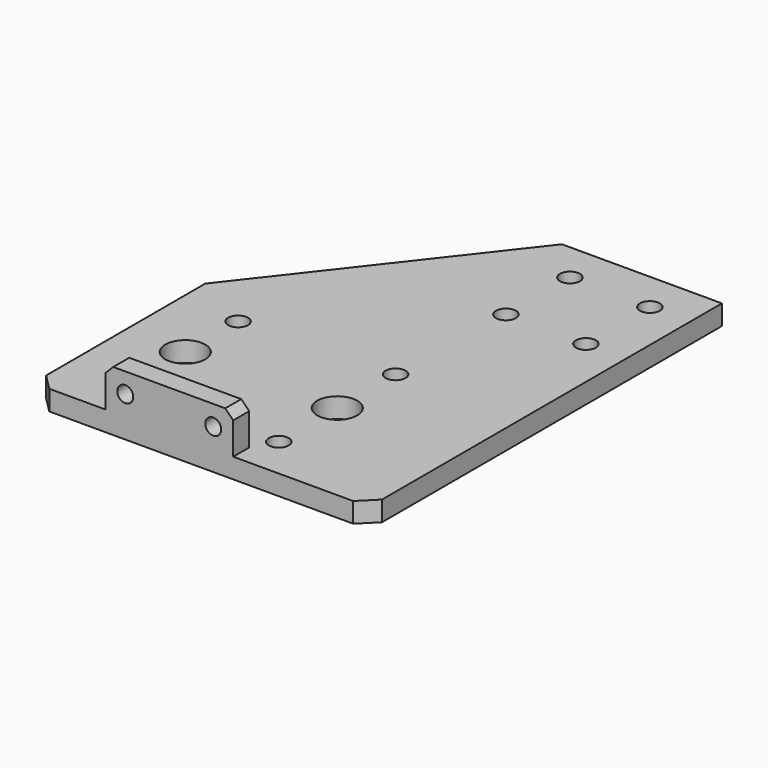
from build123d import *

# Parameters (mm, degrees)
SKETCH_R        = 2.5
SKETCH_R_2      = 5
PAD_DEPTH       = 5
CHAMFER_SIZE    = 4
SKETCH001_W     = 32
SKETCH001_H     = 5
PAD001_DEPTH    = 10
SKETCH002_R     = 2
POCKET_DEPTH    = 110.251
CHAMFER001_SIZE = 2


with BuildPart() as part:
    # Sketch → Pad (new body)
    with BuildSketch(Plane.XY):
        Polygon((84, 110.25), (44, 110.25), (0, 53.75), (0, 0), (84, 0), align=None)
        with Locations((15, 45.25)):
            Circle(SKETCH_R, mode=Mode.SUBTRACT)
        with Locations((15, 12.25)):
            Circle(SKETCH_R, mode=Mode.SUBTRACT)
        with Locations((15, 28.75)):
            Circle(SKETCH_R_2, mode=Mode.SUBTRACT)
        with Locations((53, 47)):
            Circle(SKETCH_R, mode=Mode.SUBTRACT)
        with Locations((53, 28.75)):
            Circle(SKETCH_R_2, mode=Mode.SUBTRACT)
        with Locations((53, 10.5)):
            Circle(SKETCH_R, mode=Mode.SUBTRACT)
        with Locations((54, 80.25)):
            Circle(SKETCH_R, mode=Mode.SUBTRACT)
        with Locations((74, 80.25)):
            Circle(SKETCH_R, mode=Mode.SUBTRACT)
        with Locations((54, 100.25)):
            Circle(SKETCH_R, mode=Mode.SUBTRACT)
        with Locations((74, 100.25)):
            Circle(SKETCH_R, mode=Mode.SUBTRACT)
    extrude(amount=PAD_DEPTH)

    # Chamfer
    chamfer_edges = [part.edges().sort_by_distance(p)[0] for p in [
        (0, 0, 2.5),
        (84, 0, 2.5),
    ]]
    chamfer(chamfer_edges, length=CHAMFER_SIZE)

    # Sketch001 (on Face5 of Chamfer) → Pad001 (join)
    with BuildSketch(Plane.XY.offset(5)):
        with Locations((34, 2.5)):
            Rectangle(SKETCH001_W, SKETCH001_H)
    extrude(amount=PAD001_DEPTH)

    # Sketch002 (on Face23 of Pad001) → Pocket (cut, through all)
    with BuildSketch(Plane.XZ):
        with Locations((23, 10)):
            Circle(SKETCH002_R)
        with Locations((45, 10)):
            Circle(SKETCH002_R)
    extrude(amount=-POCKET_DEPTH, mode=Mode.SUBTRACT)

    # Chamfer001
    chamfer001_edges = [part.edges().sort_by_distance(p)[0] for p in [
        (18, 2.5, 15),
        (50, 2.5, 15),
    ]]
    chamfer(chamfer001_edges, length=CHAMFER001_SIZE)


solid = part.part
